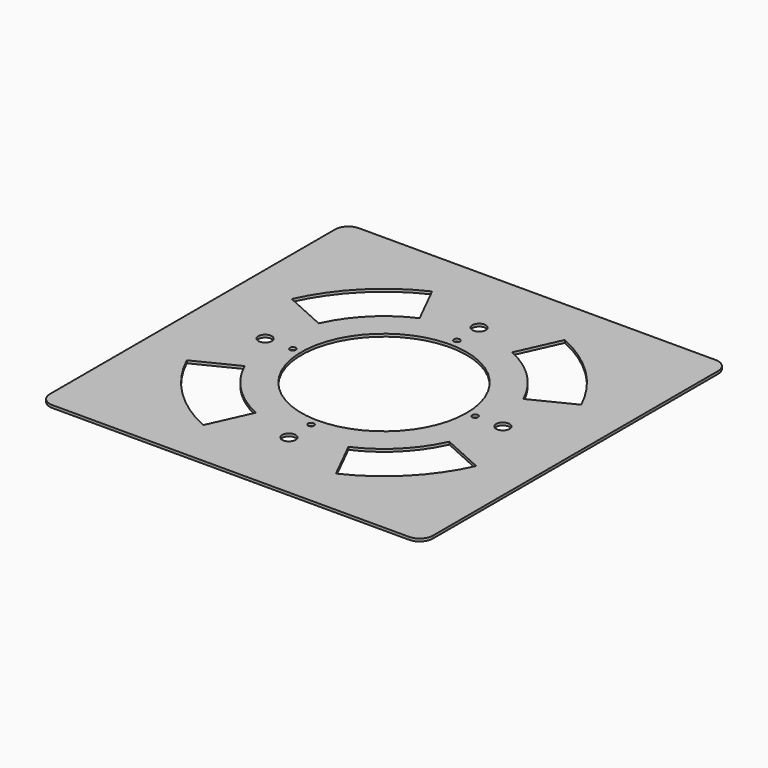
from build123d import *

# Parameters (mm, degrees)
F0_R     = 2.25
F0_R_2   = 62.5
F1_DEPTH = 2
F2_R     = 5.1
F3_DEPTH = 25
F5_DEPTH = 25


with BuildPart() as f1:
    # F0 (on Top) → F1 (new body)
    with BuildSketch(Plane.XY):
        with BuildLine():
            Line((135, 145), (-135, 145))
            ThreePointArc((-135, 145), (-142.071068, 142.071068), (-145, 135))
            Line((-145, 135), (-145, -135))
            ThreePointArc((-145, -135), (-142.071068, -142.071068), (-135, -145))
            Line((-135, -145), (135, -145))
            ThreePointArc((135, -145), (142.071068, -142.071068), (145, -135))
            Line((145, -135), (145, 135))
            ThreePointArc((145, 135), (142.071068, 142.071068), (135, 145))
        make_face()
        with Locations((0, -69)):
            Circle(F0_R, mode=Mode.SUBTRACT)
        with Locations((-69, 0)):
            Circle(F0_R, mode=Mode.SUBTRACT)
        Circle(F0_R_2, mode=Mode.SUBTRACT)
        with Locations((69, 0)):
            Circle(F0_R, mode=Mode.SUBTRACT)
        with Locations((0, 69)):
            Circle(F0_R, mode=Mode.SUBTRACT)
    extrude(amount=F1_DEPTH)

    # F2 (on face) → F3 (cut)
    with BuildSketch(Plane.XY.offset(2)):
        with Locations((0, 90)):
            Circle(F2_R)
        with Locations((-90, 0)):
            Circle(F2_R)
        with Locations((0, -90)):
            Circle(F2_R)
        with Locations((90, 0)):
            Circle(F2_R)
    extrude(amount=-F3_DEPTH, mode=Mode.SUBTRACT)

    # F4 (on face) → F5 (cut)
    with BuildSketch(Plane.XY.offset(2)):
        with BuildLine():
            Line((-35, 77.459667), (-50.635936, 108.772883))
            ThreePointArc((-50.635936, 108.772883), (-85.317456, 84.359171), (-109.337881, 49.404109))
            Line((-109.337881, 49.404109), (-77.459667, 35))
            ThreePointArc((-77.459667, 35), (-60.104076, 60.104076), (-35, 77.459667))
        make_face()
        with BuildLine():
            Line((77.459667, 35), (108.772883, 50.635936))
            ThreePointArc((108.772883, 50.635936), (84.359171, 85.317456), (49.404109, 109.337881))
            Line((49.404109, 109.337881), (35, 77.459667))
            ThreePointArc((35, 77.459667), (60.104076, 60.104076), (77.459667, 35))
        make_face()
        with BuildLine():
            ThreePointArc((50.635936, -108.772883), (85.317456, -84.359171), (109.337881, -49.404109))
            Line((109.337881, -49.404109), (77.459667, -35))
            ThreePointArc((77.459667, -35), (60.104076, -60.104076), (35, -77.459667))
            Line((35, -77.459667), (50.635936, -108.772883))
        make_face()
        with BuildLine():
            ThreePointArc((-108.772883, -50.635936), (-84.359171, -85.317456), (-49.404109, -109.337881))
            Line((-49.404109, -109.337881), (-35, -77.459667))
            ThreePointArc((-35, -77.459667), (-60.104076, -60.104076), (-77.459667, -35))
            Line((-77.459667, -35), (-108.772883, -50.635936))
        make_face()
    extrude(amount=-F5_DEPTH, mode=Mode.SUBTRACT)


solid = f1.part
